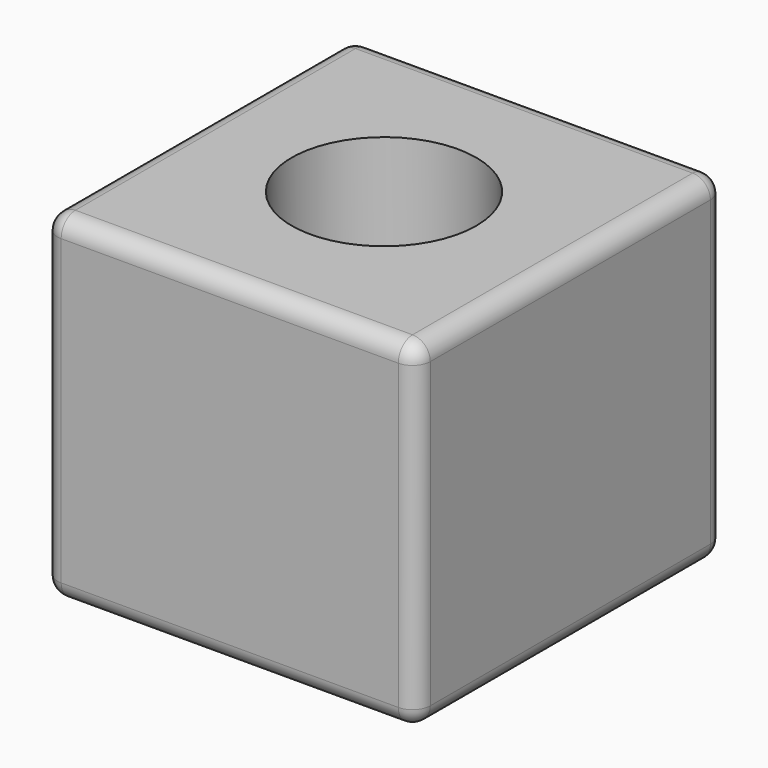
from build123d import *

# Parameters (mm, degrees)
F0_W     = 106.52008
F0_H     = 110.235908
F1_DEPTH = 96.774
F2_R     = 26.380543
F3_DEPTH = 130.81
F4_R     = 5.08


with BuildPart() as f1:
    # F0 (on Top) → F1 (new body)
    with BuildSketch(Plane.XY):
        Rectangle(F0_W, F0_H)
    extrude(amount=F1_DEPTH)

    # F2 (on face) → F3 (cut)
    with BuildSketch(Plane.XY.offset(96.774)):
        Circle(F2_R)
    extrude(amount=-F3_DEPTH, mode=Mode.SUBTRACT)

    # F4
    f4_edges = [f1.edges().sort_by_distance(p)[0] for p in [
        (0, 55.117954, 96.774),
        (-53.26004, 0, 96.774),
        (0, -55.117954, 96.774),
        (53.26004, 0, 96.774),
        (53.26004, -55.117954, 48.387),
        (-53.26004, -55.117954, 48.387),
        (0, -55.117954, 0),
        (-53.26004, 0, 0),
        (-53.26004, 55.117954, 48.387),
        (0, 55.117954, 0),
        (53.26004, 55.117954, 48.387),
        (53.26004, 0, 0),
    ]]
    fillet(f4_edges, radius=F4_R)


solid = f1.part
